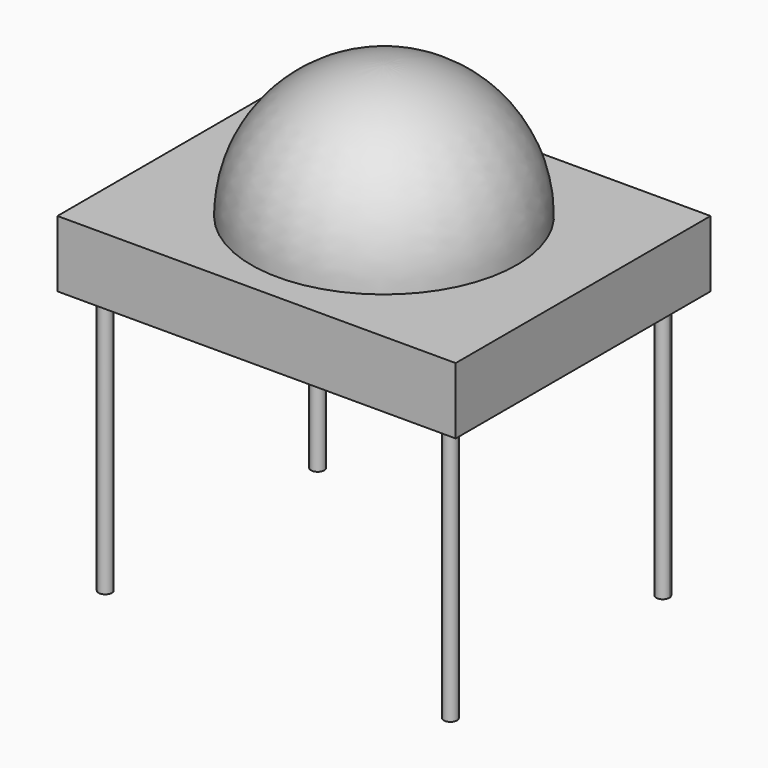
from build123d import *

# Parameters (mm, degrees)
F0_W     = 30
F0_H     = 24
F1_DEPTH = 5
F4_R     = 0.5
F5_DEPTH = 20


with BuildPart() as f1:
    # F0 (on Top) → F1 (new body)
    with BuildSketch(Plane.XY):
        Rectangle(F0_W, F0_H)
    extrude(amount=-F1_DEPTH)

    # F4 (on face) → F5 (join)
    with BuildSketch(Plane(origin=(0, 0, -5), x_dir=(1, 0, 0), z_dir=(0, 0, -1))):
        with BuildLine():
            Line((13, -10), (13.5, -10))
            ThreePointArc((13.5, -10), (12.646447, -9.646447), (13, -10.5))
            Line((13, -10.5), (13, -10))
        make_face()
        with BuildLine():
            ThreePointArc((13, -10.5), (13.353553, -10.353553), (13.5, -10))
            Line((13.5, -10), (13, -10))
            Line((13, -10), (13, -10.5))
        make_face()
        with Locations((13, 10)):
            Circle(F4_R)
        with Locations((-13, -10)):
            Circle(F4_R)
        with Locations((-13, 10)):
            Circle(F4_R)
    extrude(amount=F5_DEPTH)


with BuildPart() as f3:
    # F2 (on Right) → F3 (revolve)
    with BuildSketch(Plane.YZ):
        with BuildLine():
            Line((0, 10), (0, 0))
            Line((0, 0), (10, 0))
            ThreePointArc((10, 0), (7.071068, 7.071068), (0, 10))
        make_face()
    revolve(axis=Axis((0, 0, 5), (0, 0, 1)))


solid = Compound([f1.part, f3.part])
